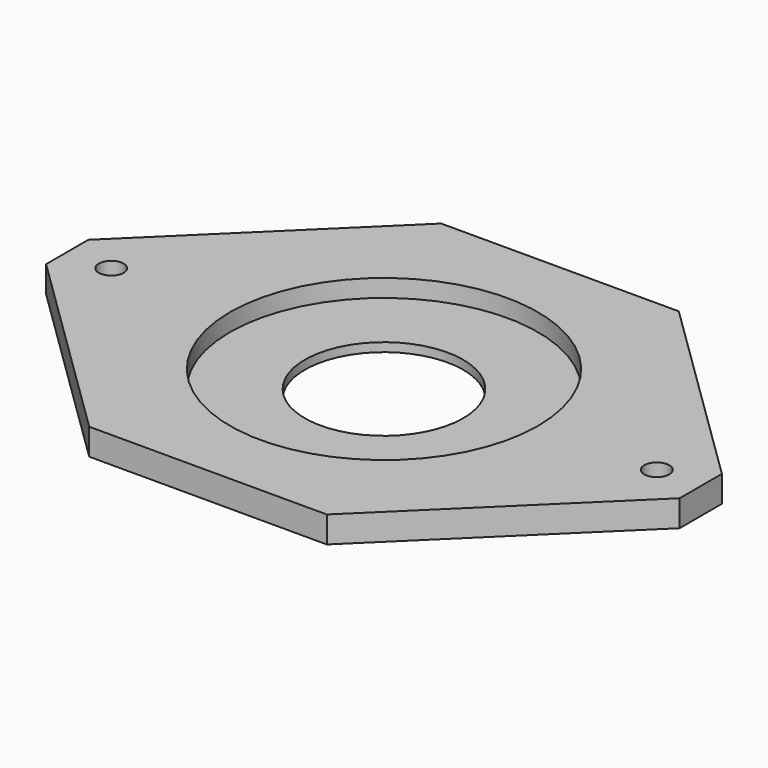
from build123d import *

# Parameters (mm, degrees)
F1_DEPTH = 9.525
F2_R     = 55.5625
F3_DEPTH = 6.35
F5_D     = 9
F6_R     = 28.575
F7_DEPTH = 3.176


with BuildPart() as f1:
    # F0 (on Top) → F1 (new body)
    with BuildSketch(Plane.XY):
        Polygon((-42.8625, 79.375), (-114.3, 9.525), (-114.3, -9.525), (-42.8625, -79.375), (42.8625, -79.375), (114.3, -9.525), (114.3, 9.525), (42.8625, 79.375), align=None)
    extrude(amount=F1_DEPTH)

    # F2 (on face) → F3 (cut)
    with BuildSketch(Plane.XY.offset(9.525)):
        Circle(F2_R)
    extrude(amount=-F3_DEPTH, mode=Mode.SUBTRACT)

    # F5 (through all)
    with Locations(Plane.XY.offset(9.525)):
        with Locations((-98.425, 0), (98.425, 0)):
            Hole(F5_D / 2)

    # F6 (on face) → F7 (cut, through all)
    with BuildSketch(Plane.XY.offset(3.175)):
        Circle(F6_R)
    extrude(amount=-F7_DEPTH, mode=Mode.SUBTRACT)


solid = f1.part
